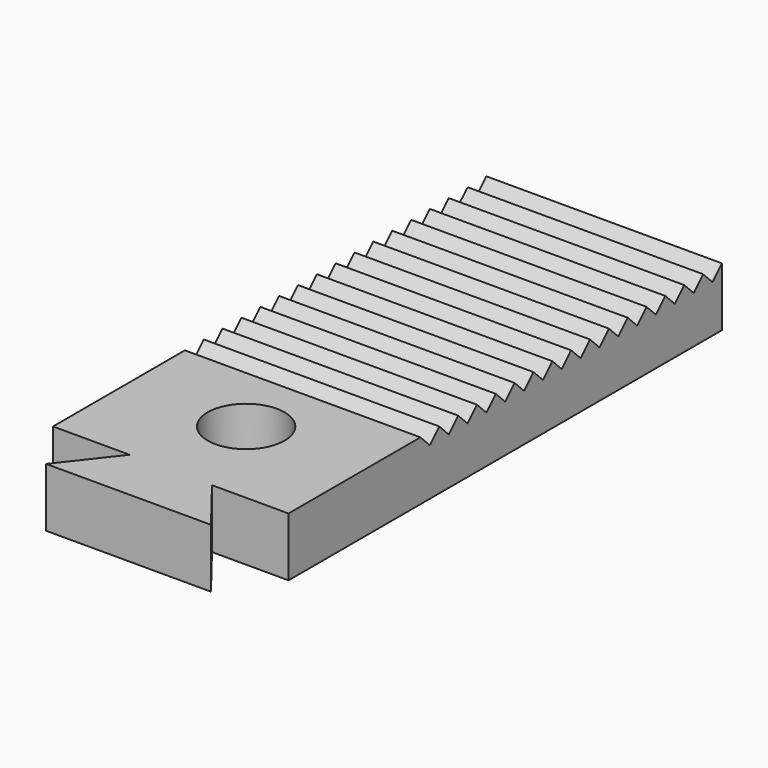
from build123d import *

# Parameters (mm, degrees)
F0_W      = 20
F0_H      = 56
F1_DEPTH  = 5
F2_W      = 20
F2_H      = 10
F3_DEPTH  = 45
F5_D      = 6.528
F7_DEPTH  = 20
F9_DEPTH  = 45
F10_DEPTH = 50.001


with BuildPart() as f1:
    # F0 (on Top) → F1 (new body)
    with BuildSketch(Plane.XY):
        with Locations((-5.1124608144, 7.0487826013)):
            Rectangle(F0_W, F0_H)
    extrude(amount=F1_DEPTH)

    # F2 (on face) → F3 (join)
    with BuildSketch(Plane.XY.offset(5)):
        with Locations((-5.1124608144, -15.9512173987)):
            Rectangle(F2_W, F2_H)
    extrude(amount=F3_DEPTH)

    # F5 (through all)
    with Locations(Plane(origin=(0, 0, 0), x_dir=(1, 0, 0), z_dir=(0, 0, -1))):
        with Locations((-5.1124608144, 2.9512173987)):
            Hole(F5_D / 2)

    # F6 (on face) → F7 (cut, through all)
    with BuildSketch(Plane(origin=(-15.1124608144, 0, 0), x_dir=(0, -1, 0), z_dir=(-1, 0, 0))):
        Polygon((-33.0487826013, 5), (-35.0487826013, 5), (-34.0487826013, 4), align=None)
        Polygon((-31.0487826013, 5), (-33.0487826013, 5), (-32.0487826013, 4), align=None)
        Polygon((-29.0487826013, 5), (-31.0487826013, 5), (-30.0487826013, 4), align=None)
        Polygon((-27.0487826013, 5), (-29.0487826013, 5), (-28.0487826013, 4), align=None)
        Polygon((-25.0487826013, 5), (-27.0487826013, 5), (-26.0487826013, 4), align=None)
        Polygon((-23.0487826013, 5), (-25.0487826013, 5), (-24.0487826013, 4), align=None)
        Polygon((-21.0487826013, 5), (-23.0487826013, 5), (-22.0487826013, 4), align=None)
        Polygon((-19.0487826013, 5), (-21.0487826013, 5), (-20.0487826013, 4), align=None)
        Polygon((-17.0487826013, 5), (-19.0487826013, 5), (-18.0487826013, 4), align=None)
        Polygon((-15.0487826013, 5), (-17.0487826013, 5), (-16.0487826013, 4), align=None)
        Polygon((-13.0487826013, 5), (-15.0487826013, 5), (-14.0487826013, 4), align=None)
        Polygon((-12.0487826013, 4), (-11.0487826013, 5), (-13.0487826013, 5), align=None)
        Polygon((-10.0487826013, 4), (-9.0487826013, 5), (-11.0487826013, 5), align=None)
        Polygon((-8.0487826013, 4), (-7.0487826013, 5), (-9.0487826013, 5), align=None)
        Polygon((-6.0487826013, 4), (-5.0487826013, 5), (-7.0487826013, 5), align=None)
        Polygon((-4.0487826013, 4), (-3.0487826013, 5), (-5.0487826013, 5), align=None)
    extrude(amount=-F7_DEPTH, mode=Mode.SUBTRACT)

    # F8 (on face) → F9 (cut)
    with BuildSketch(Plane.XY.offset(50)):
        Polygon((-1.6124608144, -10.9512173987), (-8.6124608144, -10.9512173987), (-12.1124608144, -15.4354041442), (1.8875391856, -15.4354041442), align=None)
    extrude(amount=-F9_DEPTH, mode=Mode.SUBTRACT)

    # F10 (cut, through all): a face of the model
    f10_faces = [f1.faces().sort_by_distance(p)[0] for p in [
        (-5.1124608144, -16.7236905936, 50),
    ]]
    extrude(f10_faces, amount=-F10_DEPTH, mode=Mode.SUBTRACT)


solid = f1.part
